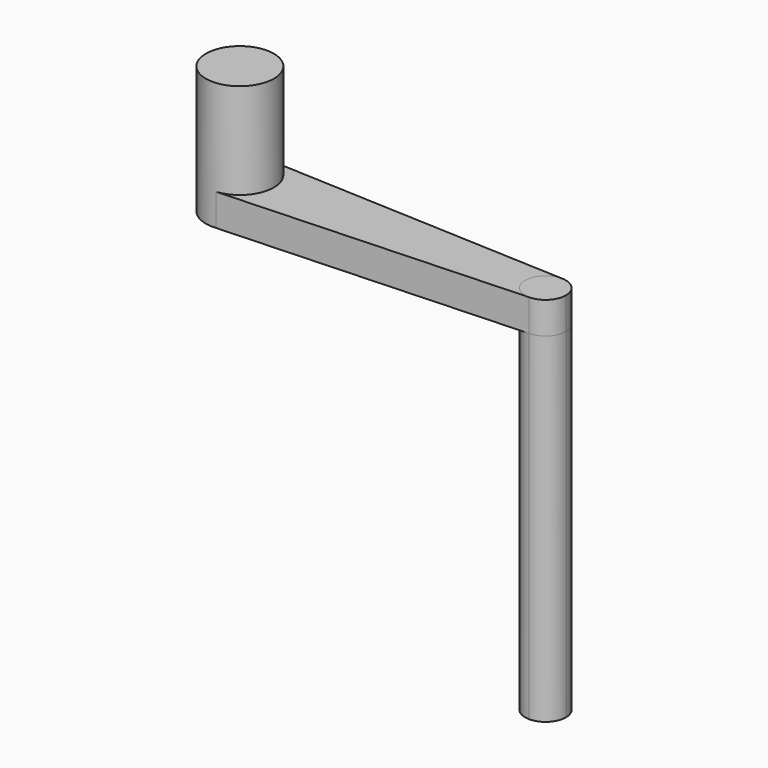
from build123d import *

# Parameters (mm, degrees)
F0_R     = 12.7
F1_DEPTH = 47.752
F3_DEPTH = 11.938
F4_DEPTH = 127
F5_DEPTH = 11.938
F6_DEPTH = 11.938


with BuildPart() as f1:
    # F0 (on Top) → F1 (new body)
    with BuildSketch(Plane.XY):
        Circle(F0_R)
    extrude(amount=F1_DEPTH)

    # F2 (on Top) → F3 (join)
    with BuildSketch(Plane.XY):
        with BuildLine():
            ThreePointArc((0.5652835213, 12.6874132328), (9.1779382413, 8.7781233552), (12.7, 0))
            ThreePointArc((12.7, 0), (9.3701287328, -8.5726709683), (1.126663381, -12.649926072))
            Line((1.126663381, -12.649926072), (114.3, -7.62))
            ThreePointArc((114.3, -7.62), (106.68, 0), (114.3, 7.62))
            Line((114.3, 7.62), (0.5652835213, 12.6874132328))
        make_face()
    extrude(amount=F3_DEPTH)

    # F2 (on Top) → F4 (join)
    with BuildSketch(Plane.XY):
        with BuildLine():
            ThreePointArc((121.92, 0), (119.6881536726, 5.3881536726), (114.3, 7.62))
            ThreePointArc((114.3, 7.62), (106.68, 0), (114.3, -7.62))
            ThreePointArc((114.3, -7.62), (119.6881536726, -5.3881536726), (121.92, 0))
        make_face()
    extrude(amount=-F4_DEPTH)

    # F2 (on Top) → F5 (cut)
    with BuildSketch(Plane.XY):
        with BuildLine():
            ThreePointArc((121.92, 0), (119.6881536726, 5.3881536726), (114.3, 7.62))
            ThreePointArc((114.3, 7.62), (106.68, 0), (114.3, -7.62))
            ThreePointArc((114.3, -7.62), (119.6881536726, -5.3881536726), (121.92, 0))
        make_face()
    extrude(amount=F5_DEPTH, mode=Mode.SUBTRACT)


with BuildPart() as f6:
    # F2 (on Top) → F6 (new body)
    with BuildSketch(Plane.XY):
        with BuildLine():
            ThreePointArc((121.92, 0), (119.6881536726, 5.3881536726), (114.3, 7.62))
            ThreePointArc((114.3, 7.62), (106.68, 0), (114.3, -7.62))
            ThreePointArc((114.3, -7.62), (119.6881536726, -5.3881536726), (121.92, 0))
        make_face()
    extrude(amount=F6_DEPTH)


solid = Compound([f1.part, f6.part])
